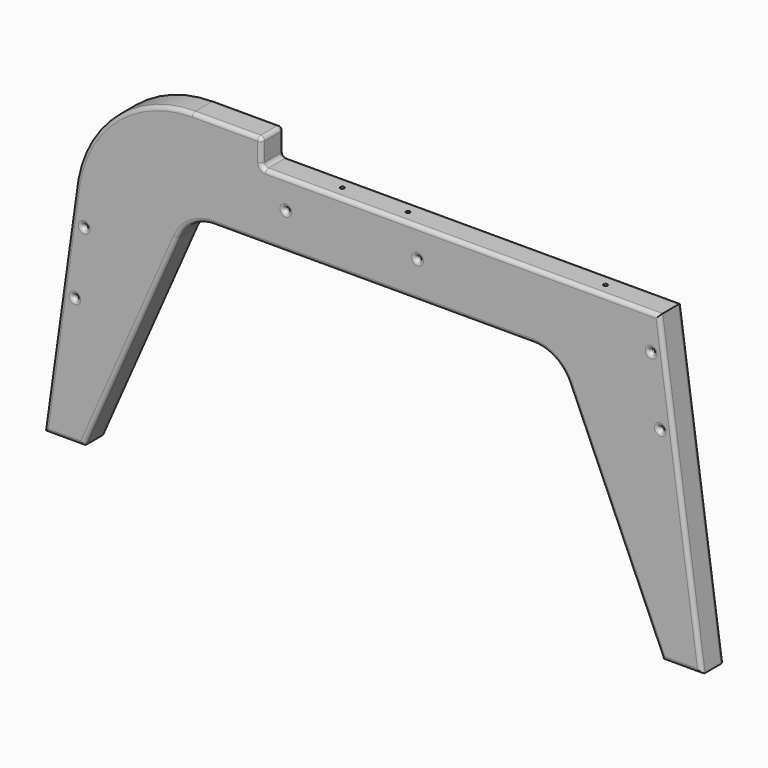
from build123d import *

# Parameters (mm, degrees)
F0_R     = 1.5
F1_DEPTH = 10.5
F2_R     = 3
F4_D     = 3
F4_DEPTH = 40
F4_TIP   = 0.9012909285
F5_D     = 3
F5_DEPTH = 40
F5_TIP   = 0.9012909285
F6_D     = 3
F6_DEPTH = 40
F6_TIP   = 0.9012909285


with BuildPart() as f1:
    # F0 (on Front) → F1 (new body, symmetric)
    with BuildSketch(Plane.XZ):
        with BuildLine():
            Line((-225.2272052793, -65.1635962077), (-250, -242.1121299267))
            Line((-250, -242.1121299267), (-220, -242.1121299267))
            Line((-220, -242.1121299267), (-148.6838502917, -80.0299714987))
            ThreePointArc((-148.6838502917, -80.0299714987), (-137.6185331351, -66.9877915987), (-121.224399319, -62.1121299267))
            Line((-121.224399319, -62.1121299267), (121.224399319, -62.1121299267))
            ThreePointArc((121.224399319, -62.1121299267), (137.6185331351, -66.9877915987), (148.6838502917, -80.0299714987))
            Line((148.6838502917, -80.0299714987), (220, -242.1121299267))
            Line((220, -242.1121299267), (250, -242.1121299267))
            Line((250, -242.1121299267), (217.8, -12.1121299267))
            Line((217.8, -12.1121299267), (-74.5983943343, -12.1121299267))
            Line((-74.5983943343, -12.1121299267), (-81.6464320101, -12.1121299267))
            ThreePointArc((-81.6464320101, -12.1121299267), (-83.7677523536, -11.2334502702), (-84.6464320101, -9.1121299267))
            Line((-84.6464320101, -9.1121299267), (-84.6464320101, 4.8878700733))
            ThreePointArc((-84.6464320101, 4.8878700733), (-85.5251116665, 7.0091904169), (-87.6464320101, 7.8878700733))
            Line((-87.6464320101, 7.8878700733), (-110, 7.8878700733))
            Line((-110, 7.8878700733), (-137.1148079634, 7.8878700733))
            ThreePointArc((-137.1148079634, 7.8878700733), (-194.3431036015, -12.750091039), (-225.2272052793, -65.1635962077))
        make_face()
        with Locations((-226.5141427815, -144.9094590614)):
            Circle(F0_R, mode=Mode.SUBTRACT)
        with Locations((-219.3660990627, -95.4230420261)):
            Circle(F0_R, mode=Mode.SUBTRACT)
        with Locations((-66.1673620343, -34.3450158834)):
            Circle(F0_R, mode=Mode.SUBTRACT)
        with Locations((218.3396287172, -88.3684444206)):
            Circle(F0_R, mode=Mode.SUBTRACT)
        with Locations((33.8326379657, -34.3450158834)):
            Circle(F0_R, mode=Mode.SUBTRACT)
        with Locations((211.4072364905, -38.8513570869)):
            Circle(F0_R, mode=Mode.SUBTRACT)
    extrude(amount=F1_DEPTH, both=True)

    # F2
    f2_edges = [f1.edges().sort_by_distance(p)[0] for p in [
        (235, -10.5, -242.11213),
        (233.9, -10.5, -127.11213),
        (68.076784, -10.5, -12.11213),
        (-83.767752, -10.5, -11.23345),
        (-84.646432, -10.5, -2.11213),
        (-85.525112, -10.5, 7.00919),
        (-112.38062, -10.5, 7.88787),
        (-194.343104, -10.5, -12.750091),
        (-237.613603, -10.5, -153.637863),
        (-235, -10.5, -242.11213),
        (-184.341925, -10.5, -161.071051),
        (-137.618533, -10.5, -66.987792),
        (0, -10.5, -62.11213),
        (137.618533, -10.5, -66.987792),
        (184.341925, -10.5, -161.071051),
        (-228.014143, -10.5, -144.909459),
        (-220.866099, -10.5, -95.423042),
        (-67.667362, -10.5, -34.345016),
        (216.839629, -10.5, -88.368444),
        (32.332638, -10.5, -34.345016),
        (209.907236, -10.5, -38.851357),
        (-184.341925, 10.5, -161.071051),
        (235, 10.5, -242.11213),
        (233.9, 10.5, -127.11213),
        (68.076784, 10.5, -12.11213),
        (-83.767752, 10.5, -11.23345),
        (-84.646432, 10.5, -2.11213),
        (-85.525112, 10.5, 7.00919),
        (-112.38062, 10.5, 7.88787),
        (-194.343104, 10.5, -12.750091),
        (-237.613603, 10.5, -153.637863),
        (-235, 10.5, -242.11213),
        (-137.618533, 10.5, -66.987792),
        (0, 10.5, -62.11213),
        (137.618533, 10.5, -66.987792),
        (184.341925, 10.5, -161.071051),
        (-228.014143, 10.5, -144.909459),
        (-220.866099, 10.5, -95.423042),
        (-67.667362, 10.5, -34.345016),
        (216.839629, 10.5, -88.368444),
        (32.332638, 10.5, -34.345016),
        (209.907236, 10.5, -38.851357),
    ]]
    fillet(f2_edges, radius=F2_R)

    # F4
    with Locations(Plane.XY.offset(-12.1121299267)):
        with Locations((-31.6464320101, 0)):
            Hole(F4_D / 2, depth=F4_DEPTH)
            with Locations((0, 0, -(F4_DEPTH + F4_TIP / 2))):  # 118° drill point
                Cone(0, F4_D / 2, F4_TIP, mode=Mode.SUBTRACT)

    # F5
    with Locations(Plane.XY.offset(-12.1121299267)):
        with Locations((18.3535679899, 0)):
            Hole(F5_D / 2, depth=F5_DEPTH)
            with Locations((0, 0, -(F5_DEPTH + F5_TIP / 2))):  # 118° drill point
                Cone(0, F5_D / 2, F5_TIP, mode=Mode.SUBTRACT)

    # F6
    with Locations(Plane.XY.offset(-12.1121299267)):
        with Locations((168.3535679899, 0)):
            Hole(F6_D / 2, depth=F6_DEPTH)
            with Locations((0, 0, -(F6_DEPTH + F6_TIP / 2))):  # 118° drill point
                Cone(0, F6_D / 2, F6_TIP, mode=Mode.SUBTRACT)


solid = f1.part
